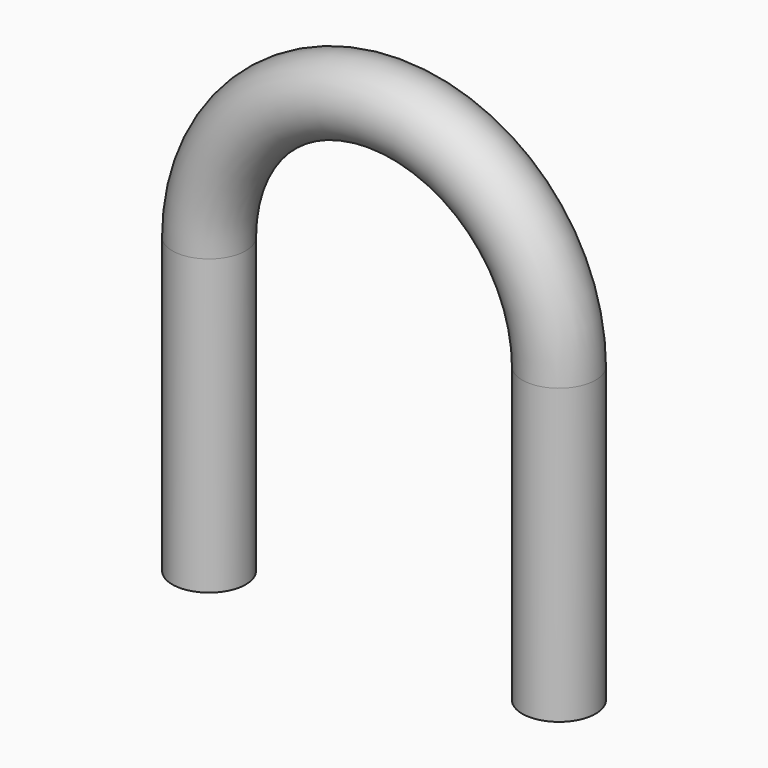
from build123d import *

# Parameters (mm, degrees)
F1_R = 6.25


with BuildPart() as f2:
    # F2: sweep along a path in F0
    with BuildLine(Plane.XZ) as f2_path:
        Line((-30, 0), (-30, 50))
        ThreePointArc((-30, 50), (-21.2132034356, 71.2132034356), (0, 80))
        ThreePointArc((0, 80), (21.2132034356, 71.2132034356), (30, 50))
        Line((30, 50), (30, 0))
    # F1 (on Top) → F2 (sweep)
    with BuildSketch(Plane.XY):
        with Locations((-29.779408646, 0)):
            Circle(F1_R)
    sweep(path=f2_path.line)


solid = f2.part
